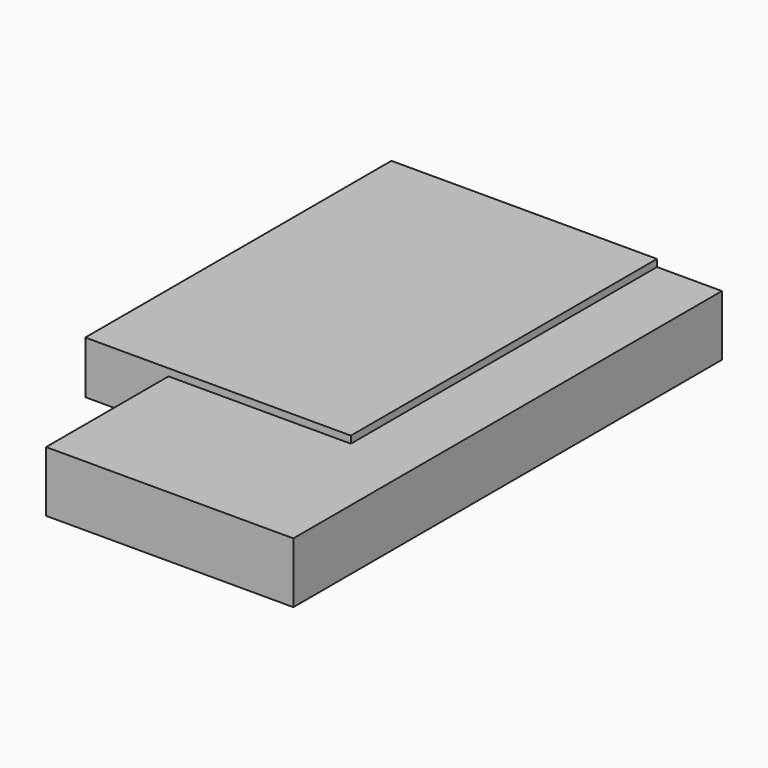
from build123d import *

# Parameters (mm, degrees)
F1_W     = 82.0750407875
F1_H     = 20.1075039804
F2_DEPTH = 50.7999993861
F0_W     = 82.0750407875
F0_H     = 20.1075039804
F4_DEPTH = 127


with BuildPart() as f2:
    # F1 (on face) → F2 (new body)
    with BuildSketch(Plane.XZ):
        with Locations((-3.4862887114, 10.0537519902)):
            Rectangle(F1_W, F1_H)
    extrude(amount=F2_DEPTH)

    # F3 (on face) + F0 (on Front) → F4 (join)
    with BuildSketch(Plane.XZ):
        Polygon((-72.149567306, 5.0325542688), (-44.5238091052, 5.0325542688), (-44.5238091052, 20.1075039804), (15.9993991256, 20.1075039804), (15.9993991256, 22.4787890911), (-72.149567306, 22.4787890911), align=None)
    with BuildSketch(Plane.XZ):
        with Locations((-3.4862887114, 10.0537519902)):
            Rectangle(F0_W, F0_H)
    extrude(amount=-F4_DEPTH)


solid = f2.part
